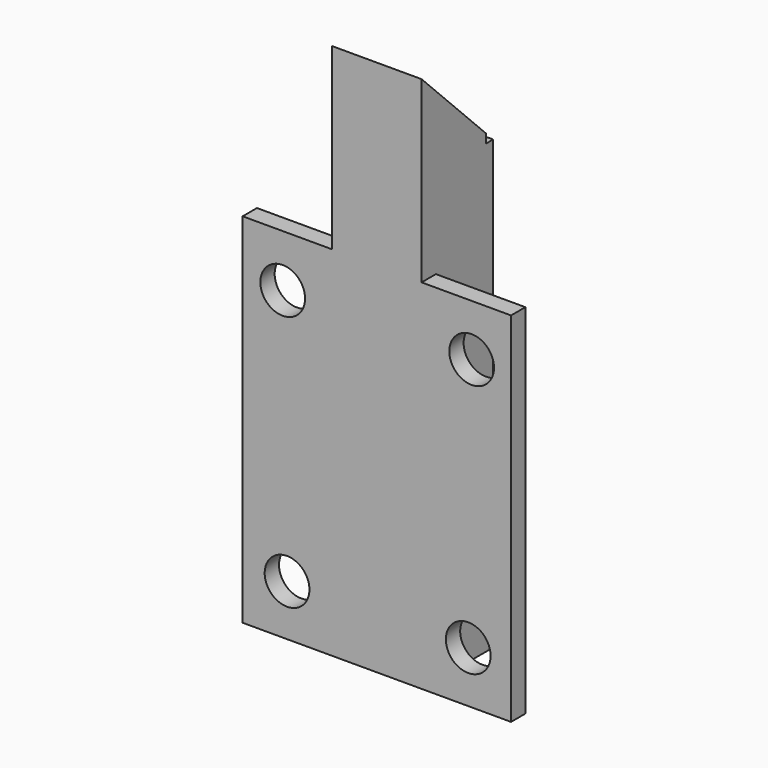
from build123d import *

# Parameters (mm, degrees)
F0_W     = 12.7
F0_H     = 50.8
F0_H_2   = 12.7
F1_DEPTH = 12.7
F0_R     = 3.175
F2_DEPTH = 2.54
F3_DEPTH = 11.43
F5_DEPTH = 12.7


with BuildPart() as f1:
    # F0 (on Front) → F1 (new body)
    with BuildSketch(Plane.XZ):
        with Locations((-7.0469496608, 2.5596140835)):
            Rectangle(F0_W, F0_H)
        with Locations((-7.0469496608, 34.3096140835)):
            Rectangle(F0_W, F0_H_2)
    extrude(amount=-F1_DEPTH)

    # F0 (on Front) → F2 (join)
    with BuildSketch(Plane.XZ):
        with Locations((-19.7469496608, 2.5596140835)):
            Rectangle(F0_W, F0_H)
        with Locations((-19.7934154421, -15.6117072329)):
            Circle(F0_R, mode=Mode.SUBTRACT)
        with Locations((-20.4100394858, 20.5467736741)):
            Circle(F0_R, mode=Mode.SUBTRACT)
        with Locations((5.6530503392, 2.5596140835)):
            Rectangle(F0_W, F0_H)
        with Locations((5.9255640863, -15.5349638661)):
            Circle(F0_R, mode=Mode.SUBTRACT)
        with Locations((6.4119519666, 20.6297561526)):
            Circle(F0_R, mode=Mode.SUBTRACT)
    extrude(amount=-F2_DEPTH)

    # F0 (on Front) → F3 (join)
    with BuildSketch(Plane.XZ):
        with Locations((-7.0469496608, 47.0096140835)):
            Rectangle(F0_W, F0_H_2)
    extrude(amount=-F3_DEPTH)

    # F4 (on face) → F5 (cut)
    with BuildSketch(Plane(origin=(-13.3969496608, 0, 0), x_dir=(0, -1, 0), z_dir=(-1, 0, 0))):
        Polygon((0, 53.3596140835), (-11.43, 53.3596140835), (-11.43, 41.9296140835), align=None)
    extrude(amount=-F5_DEPTH, mode=Mode.SUBTRACT)


solid = f1.part
